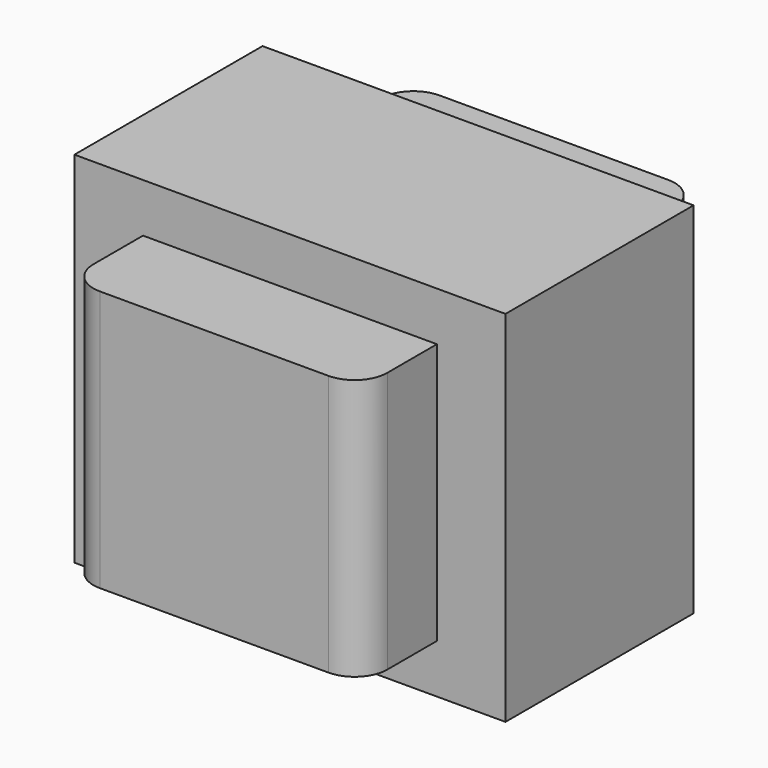
from build123d import *

# Parameters (mm, degrees)
SKETCH001_W  = 45
SKETCH001_H  = 65
PAD001_DEPTH = 20
FILLET_R     = 5
SKETCH_W     = 66
SKETCH_H     = 55
PAD_DEPTH    = 18


with BuildPart() as coil:
    # Sketch001 → Pad001 (new body, symmetric)
    with BuildSketch(Plane.XY):
        Rectangle(SKETCH001_W, SKETCH001_H)
    extrude(amount=PAD001_DEPTH, both=True)

    # Fillet
    fillet_edges = [coil.edges().sort_by_distance(p)[0] for p in [
        (-22.5, -32.5, 0),
        (22.5, -32.5, 0),
        (22.5, 32.5, 0),
        (-22.5, 32.5, 0),
    ]]
    fillet(fillet_edges, radius=FILLET_R)


with BuildPart() as fusion_of_core_and_coil:
    # Sketch → Pad (new body, symmetric)
    with BuildSketch(Plane.XZ):
        Rectangle(SKETCH_W, SKETCH_H)
    extrude(amount=PAD_DEPTH, both=True)

    # Fusion: union Coil
    add(coil.part)


solid = fusion_of_core_and_coil.part
